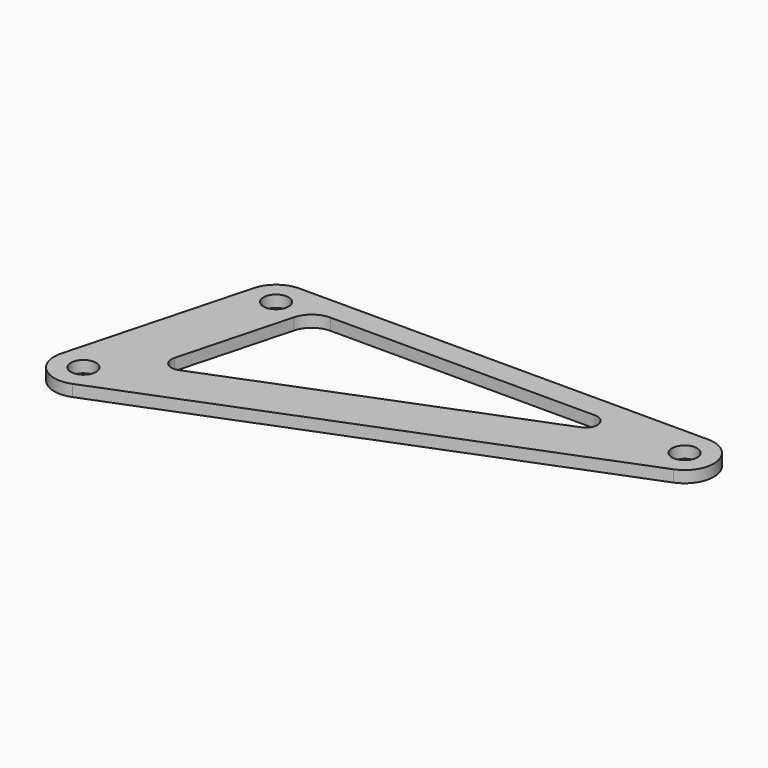
from build123d import *

# Parameters (mm, degrees)
SKETCH_R  = 2.15
PAD_DEPTH = 2


with BuildPart() as part:
    # Sketch → Pad (new body)
    with BuildSketch(Plane.XY):
        with BuildLine():
            ThreePointArc((0, 5), (-3.043807, 3.966767), (-4.829629, 1.294095))
            Line((-13.111839, -29.615531), (-4.829629, 1.294095))
            ThreePointArc((-13.111839, -29.615531), (-11.610103, -34.641265), (-6.445927, -35.560225))
            Line((71.836283, -4.650598), (-6.445927, -35.560225))
            ThreePointArc((71.836283, -4.650598), (74.911873, 0.934614), (70, 5))
            Line((0, 5), (70, 5))
        make_face()
        Circle(SKETCH_R, mode=Mode.SUBTRACT)
        with Locations((-8.282209, -30.909626)):
            Circle(SKETCH_R, mode=Mode.SUBTRACT)
        with Locations((70, 0)):
            Circle(SKETCH_R, mode=Mode.SUBTRACT)
        with BuildLine():
            Line((2.1675, -23.558181), (54.587435, -2.860239))
            ThreePointArc((54.587435, -2.860239), (55.817671, -0.626154), (53.852922, 1))
            Line((53.852922, 1), (8.513638, 1))
            ThreePointArc((8.513638, 1), (6.078592, 0.173413), (4.649935, -1.964724))
            Line((4.649935, -1.964724), (-0.498864, -21.180304))
            ThreePointArc((-0.498864, -21.180304), (0.10183, -23.190597), (2.1675, -23.558181))
        make_face(mode=Mode.SUBTRACT)
    extrude(amount=PAD_DEPTH)


solid = part.part
